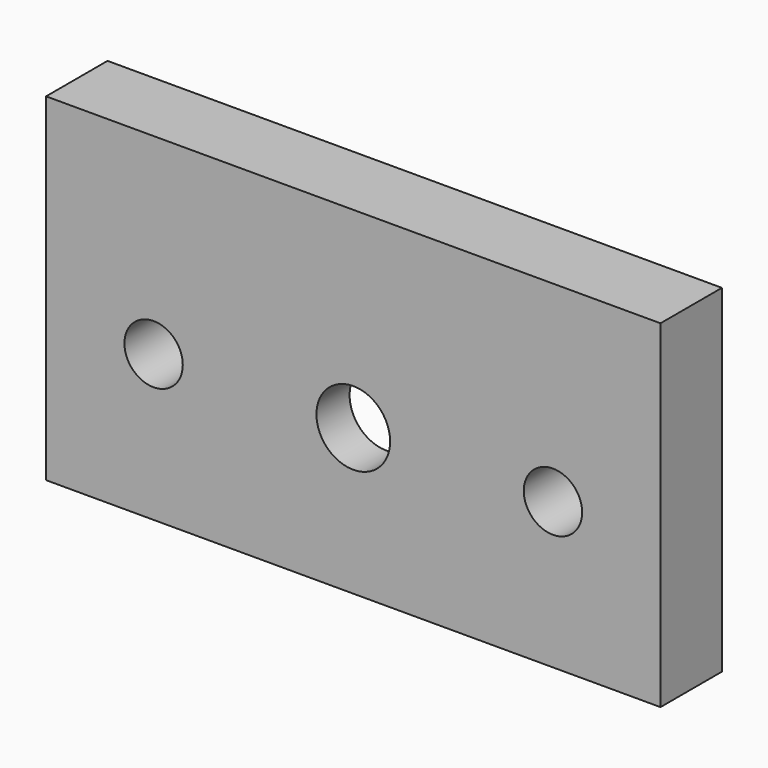
from build123d import *

# Parameters (mm, degrees)
F0_W     = 40
F0_H     = 22
F0_R     = 1.9
F0_R_2   = 2.4
F1_DEPTH = 5
F3_DEPTH = 2.3


with BuildPart() as f1:
    # F0 (on Front) → F1 (new body)
    with BuildSketch(Plane.XZ):
        with Locations((20, 11)):
            Rectangle(F0_W, F0_H)
        with Locations((7, 9.5)):
            Circle(F0_R, mode=Mode.SUBTRACT)
        with Locations((20, 9.5)):
            Circle(F0_R_2, mode=Mode.SUBTRACT)
        with Locations((33, 9.5)):
            Circle(F0_R, mode=Mode.SUBTRACT)
    extrude(amount=F1_DEPTH)

    # F2 (on face) → F3 (cut)
    with BuildSketch(Plane(origin=(0, 0, 0), x_dir=(-1, 0, 0), z_dir=(0, 1, 0))):
        Polygon((-14.5, 6.324574), (-14.5, 12.675426), (-20, 15.850853), (-25.5, 12.675426), (-25.5, 6.324574), (-20, 3.149147), align=None)
    extrude(amount=-F3_DEPTH, mode=Mode.SUBTRACT)


solid = f1.part
